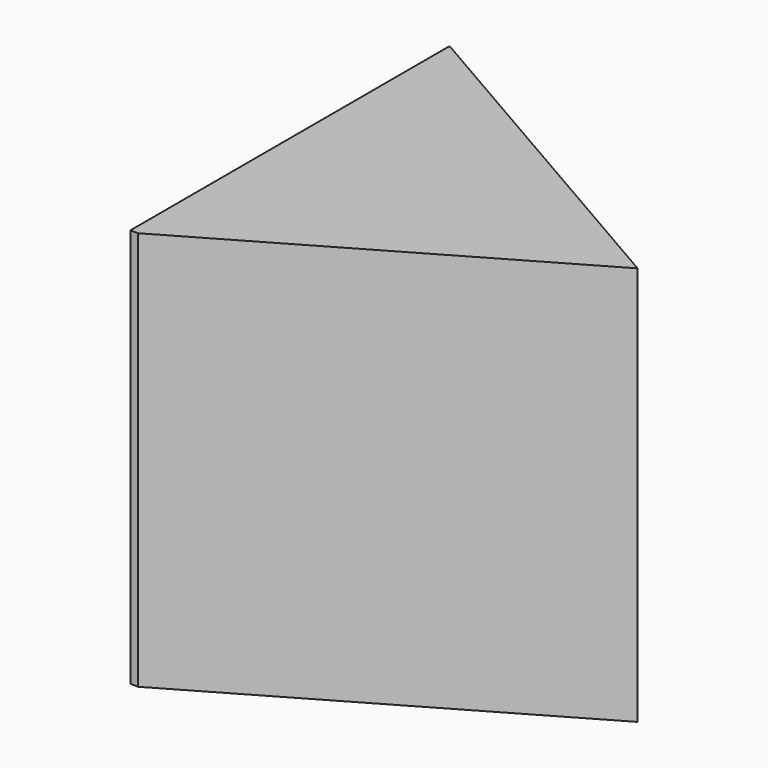
from build123d import *

# Parameters (mm, degrees)
BOX028_W               = 1
BOX028_H               = 1
BOX028_DEPTH           = 0.5
BOX028_PLACEMENT_ANGLE = 30
BOX029_W               = 1
BOX029_H               = 1
BOX029_DEPTH           = 0.5
BOX029_PLACEMENT_ANGLE = 60
BOX027_W               = 0.5
BOX027_H               = 0.5
BOX027_DEPTH           = 0.5
CUT020_PLACEMENT_ANGLE = -90


with BuildPart() as kub028:
    # Box028 → Box028 (new body)
    with BuildSketch(Plane.XY):
        with Locations((0.5, 0.5)):
            Rectangle(BOX028_W, BOX028_H)
    extrude(amount=BOX028_DEPTH)


with BuildPart() as kub028_1:
    # Box028 placement: moved
    add(kub028.part.moved(Location((0.4, 1, 2.02))).rotate(Axis((0.4, 1, 2.02), (0, 0, 1)), BOX028_PLACEMENT_ANGLE))


with BuildPart() as kub029:
    # Box029 → Box029 (new body)
    with BuildSketch(Plane.XY):
        with Locations((0.5, 0.5)):
            Rectangle(BOX029_W, BOX029_H)
    extrude(amount=BOX029_DEPTH)


with BuildPart() as kub029_1:
    # Box029 placement: moved
    add(kub029.part.moved(Location((-0.394, 1, 2.02))).rotate(Axis((-0.394, 1, 2.02), (0, 0, 1)), BOX029_PLACEMENT_ANGLE))


with BuildPart() as cut020:
    # Box027 → Box027 (new body)
    with BuildSketch(Plane(origin=(-0.25, 1.25, 2.02), x_dir=(1, 0, 0), z_dir=(0, 0, 1))):
        with Locations((0.25, 0.25)):
            Rectangle(BOX027_W, BOX027_H)
    extrude(amount=BOX027_DEPTH)

    # Cut019: cut Kub029
    add(kub029_1.part, mode=Mode.SUBTRACT)

    # Cut020: cut Kub028
    add(kub028_1.part, mode=Mode.SUBTRACT)


with BuildPart() as cut020_1:
    # Cut020 placement: moved
    add(cut020.part.rotate(Axis((0, 0, 0), (0, 0, 1)), CUT020_PLACEMENT_ANGLE))


solid = cut020_1.part
